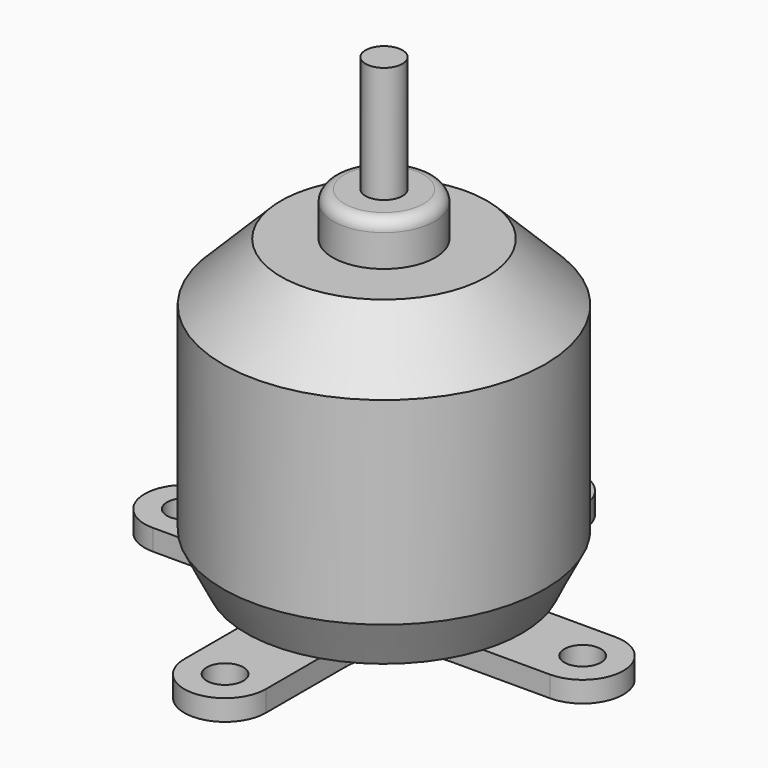
from build123d import *

# Parameters (mm, degrees)
F2_SIZE  = 5
F3_SIZE2 = 2
F3_SIZE  = 4
F4_R     = 1
F5_R     = 1.575
F6_DEPTH = 1.8
F7_R     = 5


with BuildPart() as f1:
    # F0 (on Front) → F1 (revolve)
    with BuildSketch(Plane.XZ):
        Polygon((0, 41), (0, 0), (2.2364340257, 0), (2.2364340257, 1.25), (13.85, 1.25), (13.85, 27.25), (4.4, 27.25), (4.4, 31), (1.5875, 31), (1.5875, 41), align=None)
    revolve(axis=Axis((0, 0, 53.8787767291), (0, 0, 1)))

    # F2
    f2_edges = [f1.edges().sort_by_distance(p)[0] for p in [
        (-13.85, 0, 27.25),
    ]]
    chamfer(f2_edges, length=F2_SIZE)

    # F3
    f3_edges = [f1.edges().sort_by_distance(p)[0] for p in [
        (-13.85, 0, 1.25),
    ]]
    f3_side = f1.faces().sort_by_distance((-13.85, 0, 11.75))[0]
    chamfer(f3_edges, length=F3_SIZE, length2=F3_SIZE2, reference=f3_side)

    # F4
    f4_edges = [f1.edges().sort_by_distance(p)[0] for p in [
        (-4.4, 0, 31),
    ]]
    fillet(f4_edges, radius=F4_R)

    # F5 (on face) → F6 (join)
    with BuildSketch(Plane(origin=(0, 0, 1.25), x_dir=(1, 0, 0), z_dir=(0, 0, -1))):
        with BuildLine():
            Line((-3.5, 3.5), (-17.075, 3.5))
            ThreePointArc((-17.075, 3.5), (-20.575, 0), (-17.075, -3.5))
            Line((-17.075, -3.5), (-3.5, -3.5))
            Line((-3.5, -3.5), (-3.5, -17.075))
            ThreePointArc((-3.5, -17.075), (0, -20.575), (3.5, -17.075))
            Line((3.5, -17.075), (3.5, -3.5))
            Line((3.5, -3.5), (17.075, -3.5))
            ThreePointArc((17.075, -3.5), (20.575, 0), (17.075, 3.5))
            Line((17.075, 3.5), (3.5, 3.5))
            Line((3.5, 3.5), (3.5, 17.075))
            ThreePointArc((3.5, 17.075), (0, 20.575), (-3.5, 17.075))
            Line((-3.5, 17.075), (-3.5, 3.5))
        make_face()
        with Locations((0, -17.075)):
            Circle(F5_R, mode=Mode.SUBTRACT)
        with Locations((-17.075, 0)):
            Circle(F5_R, mode=Mode.SUBTRACT)
        with Locations((17.075, 0)):
            Circle(F5_R, mode=Mode.SUBTRACT)
        with Locations((0, 17.075)):
            Circle(F5_R, mode=Mode.SUBTRACT)
    extrude(amount=F6_DEPTH)

    # F7
    f7_edges = [f1.edges().sort_by_distance(p)[0] for p in [
        (-3.5, -3.5, 0.35),
        (-3.5, 3.5, 0.35),
        (3.5, 3.5, 0.35),
        (3.5, -3.5, 0.35),
    ]]
    fillet(f7_edges, radius=F7_R)


solid = f1.part
